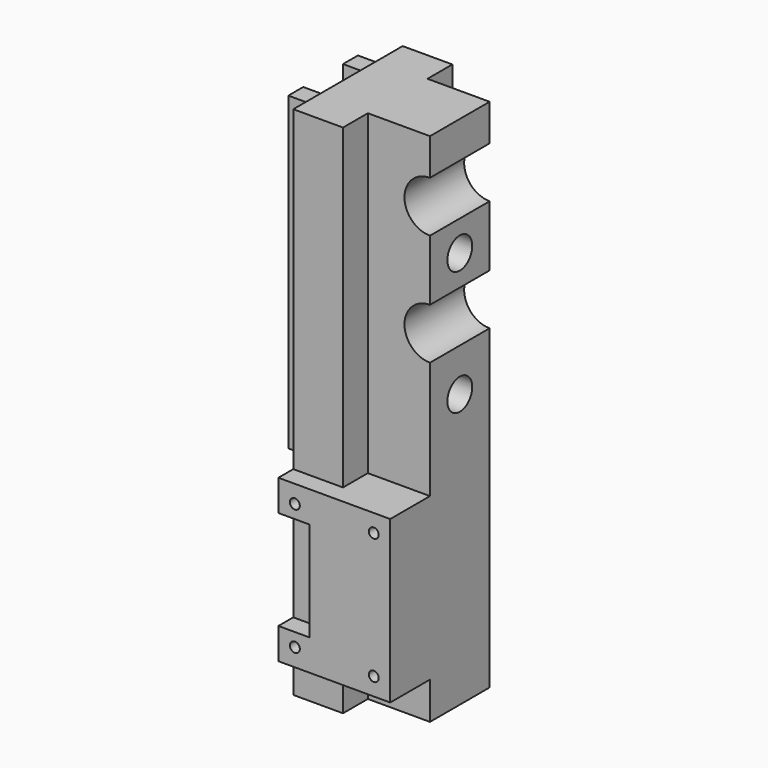
from build123d import *

# Parameters (mm, degrees)
CYLINDER035_R     = 2.5
CYLINDER035_DEPTH = 10
CYLINDER034_R     = 2.5
CYLINDER034_DEPTH = 10
CYLINDER023_R     = 4.1
CYLINDER023_DEPTH = 12
CYLINDER008_R     = 4.1
CYLINDER008_DEPTH = 12
BOX001_W          = 10
BOX001_H          = 12
BOX001_DEPTH      = 83
BOX007_W          = 5
BOX007_H          = 3
BOX007_DEPTH      = 16
CYLINDER027_R     = 0.8
CYLINDER027_DEPTH = 10
CYLINDER028_R     = 0.8
CYLINDER028_DEPTH = 10
CYLINDER029_R     = 0.8
CYLINDER029_DEPTH = 10
CYLINDER_R        = 0.8
CYLINDER_DEPTH    = 10
BOX003_W          = 18
BOX003_H          = 8
BOX003_DEPTH      = 26
CYLINDER031_R     = 0.8
CYLINDER031_DEPTH = 5
CYLINDER032_R     = 0.8
CYLINDER032_DEPTH = 5
CYLINDER033_R     = 0.8
CYLINDER033_DEPTH = 5
CYLINDER030_R     = 0.8
CYLINDER030_DEPTH = 5
BOX006_W          = 4
BOX006_H          = 8
BOX006_DEPTH      = 3
BOX009_W          = 4
BOX009_H          = 8
BOX009_DEPTH      = 3
BOX005_W          = 4
BOX005_H          = 14
BOX005_DEPTH      = 50
BOX004_W          = 8
BOX004_H          = 22
BOX004_DEPTH      = 83


with BuildPart() as screwhole001:
    # Cylinder035 → Cylinder035 (new body)
    with BuildSketch(Plane(origin=(0, 6, 44), x_dir=(0, 0, -1), z_dir=(1, 0, 0))):
        Circle(CYLINDER035_R)
    extrude(amount=CYLINDER035_DEPTH)


with BuildPart() as fusion:
    # Cylinder034 → Cylinder034 (new body)
    with BuildSketch(Plane(origin=(0, 6, 64), x_dir=(0, 0, -1), z_dir=(1, 0, 0))):
        Circle(CYLINDER034_R)
    extrude(amount=CYLINDER034_DEPTH)

    # Fusion: union ScrewHole001
    add(screwhole001.part)


with BuildPart() as polea1:
    # Cylinder023 → Cylinder023 (new body)
    with BuildSketch(Plane(origin=(10, 12, 73), x_dir=(1, 0, 0), z_dir=(0, -1, 0))):
        Circle(CYLINDER023_R)
    extrude(amount=CYLINDER023_DEPTH)


with BuildPart() as polea2:
    # Cylinder008 → Cylinder008 (new body)
    with BuildSketch(Plane(origin=(10, 12, 55), x_dir=(1, 0, 0), z_dir=(0, -1, 0))):
        Circle(CYLINDER008_R)
    extrude(amount=CYLINDER008_DEPTH)


with BuildPart() as obj1:
    # Box001 → Box001 (new body)
    with BuildSketch(Plane.XY):
        with Locations((5, 6)):
            Rectangle(BOX001_W, BOX001_H)
    extrude(amount=BOX001_DEPTH)

    # Cut005: cut PoleA2
    add(polea2.part, mode=Mode.SUBTRACT)

    # Cut015: cut PoleA1
    add(polea1.part, mode=Mode.SUBTRACT)

    # Cut016: cut Fusion
    add(fusion.part, mode=Mode.SUBTRACT)


with BuildPart() as cut015:
    # Box007 → Box007 (new body)
    with BuildSketch(Plane(origin=(-8, -8, 11), x_dir=(1, 0, 0), z_dir=(0, 0, 1))):
        with Locations((2.5, 1.5)):
            Rectangle(BOX007_W, BOX007_H)
    extrude(amount=BOX007_DEPTH)


with BuildPart() as obj2:
    # Cylinder027 → Cylinder027 (new body)
    with BuildSketch(Plane(origin=(-5.35, -2, 8.85), x_dir=(1, 0, 0), z_dir=(0, -1, 0))):
        Circle(CYLINDER027_R)
    extrude(amount=CYLINDER027_DEPTH)


with BuildPart() as obj3:
    # Cylinder028 → Cylinder028 (new body)
    with BuildSketch(Plane(origin=(7.35, -2, 29.15), x_dir=(1, 0, 0), z_dir=(0, -1, 0))):
        Circle(CYLINDER028_R)
    extrude(amount=CYLINDER028_DEPTH)


with BuildPart() as obj4:
    # Cylinder029 → Cylinder029 (new body)
    with BuildSketch(Plane(origin=(-5.35, -2, 29.15), x_dir=(1, 0, 0), z_dir=(0, -1, 0))):
        Circle(CYLINDER029_R)
    extrude(amount=CYLINDER029_DEPTH)


with BuildPart() as obj5:
    # Cylinder → Cylinder (new body)
    with BuildSketch(Plane(origin=(7.35, -2, 8.85), x_dir=(1, 0, 0), z_dir=(0, -1, 0))):
        Circle(CYLINDER_R)
    extrude(amount=CYLINDER_DEPTH)

    # Fusion007: union obj2, obj3, obj4
    add(obj2.part)
    add(obj3.part)
    add(obj4.part)


with BuildPart() as obj6:
    # Box003 → Box003 (new body)
    with BuildSketch(Plane(origin=(-8, -8, 6), x_dir=(1, 0, 0), z_dir=(0, 0, 1))):
        with Locations((9, 4)):
            Rectangle(BOX003_W, BOX003_H)
    extrude(amount=BOX003_DEPTH)

    # Cut011: cut obj5
    add(obj5.part, mode=Mode.SUBTRACT)

    # Cut014: cut Cut015
    add(cut015.part, mode=Mode.SUBTRACT)


with BuildPart() as obj7:
    # Cylinder031 → Cylinder031 (new body)
    with BuildSketch(Plane(origin=(-3, 11.7, 2.5), x_dir=(0, 0, 1), z_dir=(-1, 0, 0))):
        Circle(CYLINDER031_R)
    extrude(amount=CYLINDER031_DEPTH)


with BuildPart() as obj8:
    # Cylinder032 → Cylinder032 (new body)
    with BuildSketch(Plane(origin=(-3, 0.28, 49.5), x_dir=(0, 0, 1), z_dir=(-1, 0, 0))):
        Circle(CYLINDER032_R)
    extrude(amount=CYLINDER032_DEPTH)


with BuildPart() as obj9:
    # Cylinder033 → Cylinder033 (new body)
    with BuildSketch(Plane(origin=(-3, 11.7, 49.5), x_dir=(0, 0, 1), z_dir=(-1, 0, 0))):
        Circle(CYLINDER033_R)
    extrude(amount=CYLINDER033_DEPTH)


with BuildPart() as pi_holes001:
    # Cylinder030 → Cylinder030 (new body)
    with BuildSketch(Plane(origin=(-3, 0.28, 2.5), x_dir=(0, 0, 1), z_dir=(-1, 0, 0))):
        Circle(CYLINDER030_R)
    extrude(amount=CYLINDER030_DEPTH)

    # Fusion008: union obj7, obj8, obj9
    add(obj7.part)
    add(obj8.part)
    add(obj9.part)


with BuildPart() as pi_holes001_1:
    # Fusion008 placement: moved
    add(pi_holes001.part.moved(Location((-4, 0, 31))))


with BuildPart() as headercut1:
    # Box006 → Box006 (new body)
    with BuildSketch(Plane(origin=(-12, 2, 32), x_dir=(1, 0, 0), z_dir=(0, 0, 1))):
        with Locations((2, 4)):
            Rectangle(BOX006_W, BOX006_H)
    extrude(amount=BOX006_DEPTH)


with BuildPart() as headercut:
    # Box009 → Box009 (new body)
    with BuildSketch(Plane(origin=(-12, 2, 79), x_dir=(1, 0, 0), z_dir=(0, 0, 1))):
        with Locations((2, 4)):
            Rectangle(BOX009_W, BOX009_H)
    extrude(amount=BOX009_DEPTH)

    # Fusion009: union HeaderCut1
    add(headercut1.part)


with BuildPart() as cut018:
    # Box005 → Box005 (new body)
    with BuildSketch(Plane(origin=(-12, -1, 32), x_dir=(1, 0, 0), z_dir=(0, 0, 1))):
        with Locations((2, 7)):
            Rectangle(BOX005_W, BOX005_H)
    extrude(amount=BOX005_DEPTH)

    # Cut017: cut headercut
    add(headercut.part, mode=Mode.SUBTRACT)

    # Cut018: cut pi holes001
    add(pi_holes001_1.part, mode=Mode.SUBTRACT)


with BuildPart() as obj10:
    # Box004 → Box004 (new body)
    with BuildSketch(Plane(origin=(-8, -5, 0), x_dir=(1, 0, 0), z_dir=(0, 0, 1))):
        with Locations((4, 11)):
            Rectangle(BOX004_W, BOX004_H)
    extrude(amount=BOX004_DEPTH)

    # Fusion010: union Cut018
    add(cut018.part)

    # Fusion012: union obj1, obj6
    add(obj1.part)
    add(obj6.part)


solid = obj10.part
